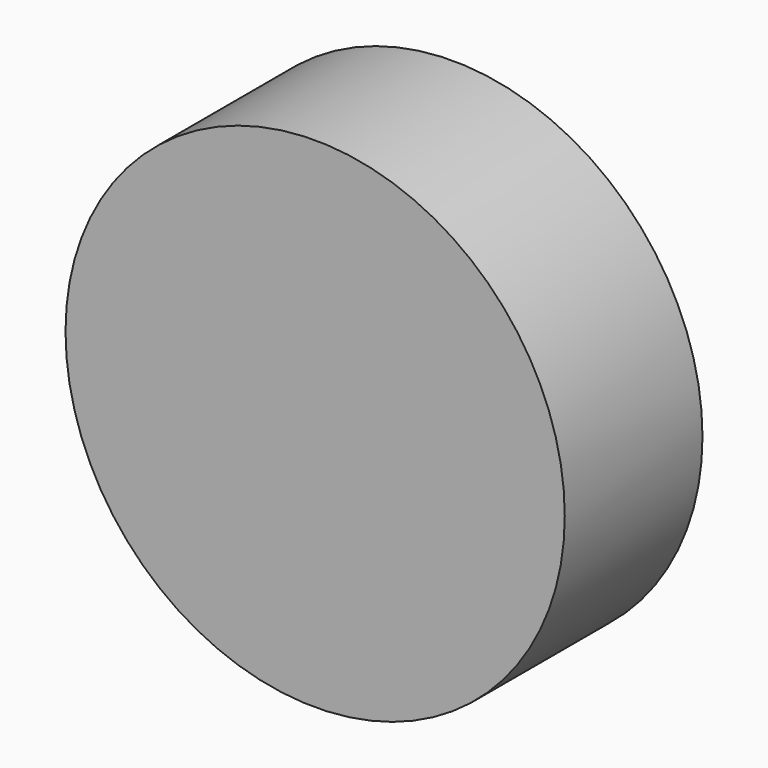
from build123d import *

# Parameters (mm, degrees)
F0_R     = 43.5
F0_R_2   = 41.5
F1_DEPTH = 30
F2_DEPTH = 27


with BuildPart() as f1:
    # F0 (on Front) → F1 (new body)
    with BuildSketch(Plane.XZ):
        Circle(F0_R)
        Circle(F0_R_2, mode=Mode.SUBTRACT)
        Circle(F0_R_2)
    extrude(amount=F1_DEPTH)

    # F0 (on Front) → F2 (cut)
    with BuildSketch(Plane.XZ):
        Circle(F0_R_2)
    extrude(amount=F2_DEPTH, mode=Mode.SUBTRACT)


solid = f1.part
